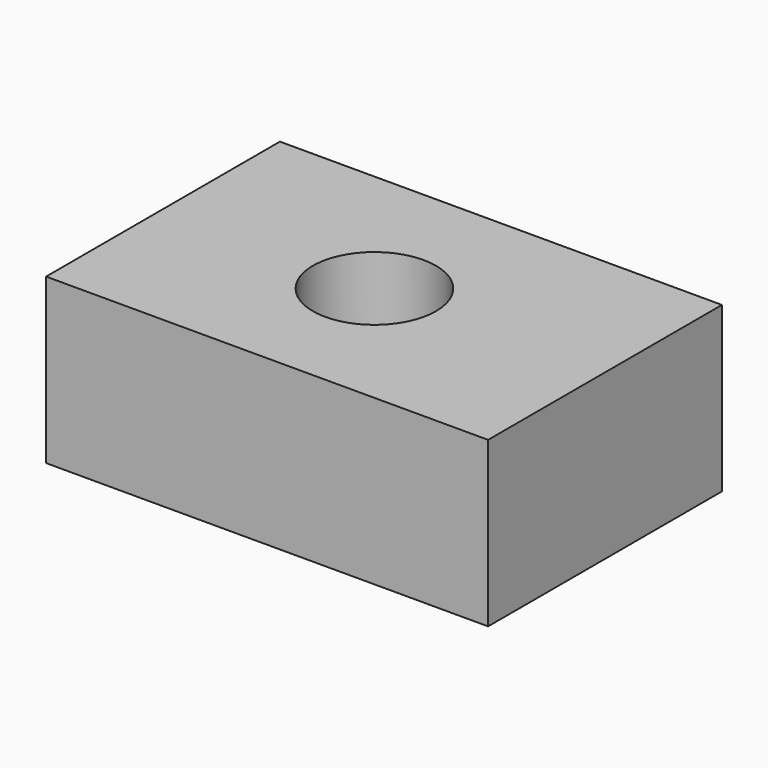
from build123d import *

# Parameters (mm, degrees)
F0_W     = 136.742865
F0_H     = 90.413568
F0_R     = 19.05
F1_DEPTH = 50.8


with BuildPart() as f1:
    # F0 (on Top) → F1 (new body)
    with BuildSketch(Plane.XY):
        with Locations((2.551172, 0.510237)):
            Rectangle(F0_W, F0_H)
        Circle(F0_R, mode=Mode.SUBTRACT)
    extrude(amount=-F1_DEPTH)


solid = f1.part
